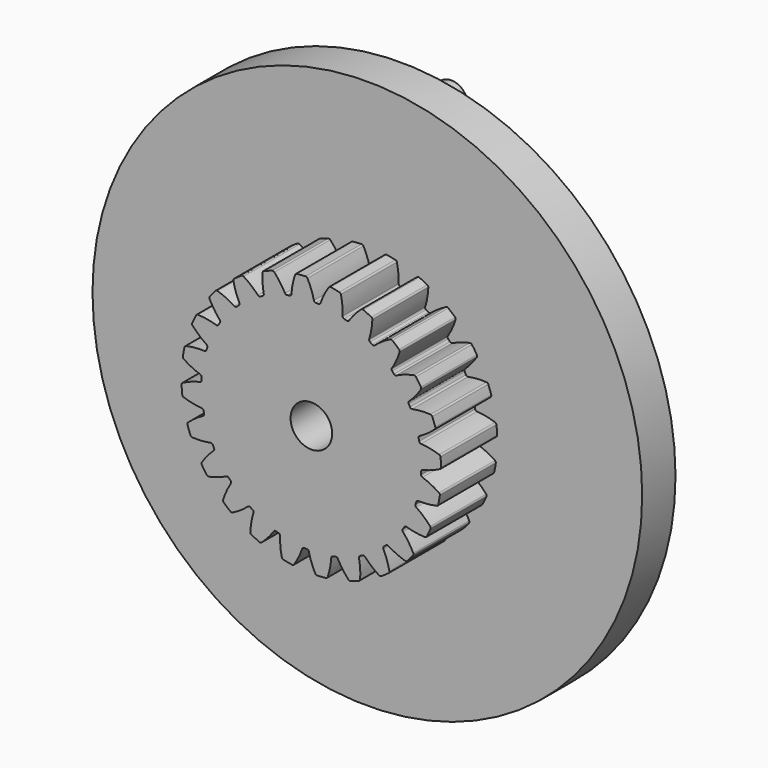
from build123d import *

# Parameters (mm, degrees)
F1_DEPTH = 4.2
F2_R     = 16.5
F3_DEPTH = 2.5
F4_R     = 1.25
F5_DEPTH = 25
F6_R     = 1
F7_DEPTH = 3.8


with BuildPart() as f1:
    # F0 (on Front) → F1 (new body)
    with BuildSketch(Plane.XZ):
        with BuildLine():
            ThreePointArc((0.151287, 6.687828), (-0.007487, 7.220411), (-0.233319, 7.728203))
            ThreePointArc((-0.233319, 7.728203), (-0.279781, 7.776515), (-0.344907, 7.792371))
            ThreePointArc((-0.344907, 7.792371), (-0.611981, 7.775955), (-0.878335, 7.750389))
            ThreePointArc((-0.878335, 7.750389), (-0.940178, 7.72454), (-0.978511, 7.669555))
            ThreePointArc((-0.978511, 7.669555), (-1.122126, 7.132687), (-1.195631, 6.581824))
            ThreePointArc((-1.195631, 6.581824), (-1.225217, 6.510792), (-1.291863, 6.472333))
            ThreePointArc((-1.291863, 6.472333), (-1.372217, 6.455774), (-1.452359, 6.438218))
            ThreePointArc((-1.452359, 6.438218), (-2.203125, 6.221434), (-2.923007, 5.917435))
            ThreePointArc((-2.923007, 5.917435), (-2.996337, 5.880643), (-3.069205, 5.842943))
            ThreePointArc((-3.069205, 5.842943), (-3.738281, 5.439233), (-4.354952, 4.959273))
            ThreePointArc((-4.354952, 4.959273), (-4.416262, 4.904756), (-4.476889, 4.849481))
            ThreePointArc((-4.476889, 4.849481), (-5.018679, 4.286357), (-5.490115, 3.663145))
            ThreePointArc((-5.490115, 3.663145), (-5.535226, 3.594618), (-5.579481, 3.525534))
            ThreePointArc((-5.579481, 3.525534), (-5.957063, 2.841373), (-6.251136, 2.11738))
            ThreePointArc((-6.251136, 2.11738), (-6.276973, 2.039512), (-6.30184, 1.961329))
            ThreePointArc((-6.30184, 1.961329), (-6.489482, 1.202754), (-6.586152, 0.427319))
            ThreePointArc((-6.586152, 0.427319), (-6.590955, 0.345417), (-6.594739, 0.263462))
            ThreePointArc((-6.594739, 0.263462), (-6.579654, -0.51783), (-6.472333, -1.291863))
            ThreePointArc((-6.472333, -1.291863), (-6.455774, -1.372217), (-6.438218, -1.452359))
            ThreePointArc((-6.438218, -1.452359), (-6.221434, -2.203125), (-5.917435, -2.923007))
            ThreePointArc((-5.917435, -2.923007), (-5.880643, -2.996337), (-5.842943, -3.069205))
            ThreePointArc((-5.842943, -3.069205), (-5.439233, -3.738281), (-4.959273, -4.354952))
            ThreePointArc((-4.959273, -4.354952), (-4.904756, -4.416262), (-4.849481, -4.476889))
            ThreePointArc((-4.849481, -4.476889), (-4.286357, -5.018679), (-3.663145, -5.490115))
            ThreePointArc((-3.663145, -5.490115), (-3.594618, -5.535226), (-3.525534, -5.579481))
            ThreePointArc((-3.525534, -5.579481), (-2.841373, -5.957063), (-2.11738, -6.251136))
            ThreePointArc((-2.11738, -6.251136), (-2.039512, -6.276973), (-1.961329, -6.30184))
            ThreePointArc((-1.961329, -6.30184), (-1.202754, -6.489482), (-0.427319, -6.586152))
            ThreePointArc((-0.427319, -6.586152), (-0.345417, -6.590955), (-0.263462, -6.594739))
            ThreePointArc((-0.263462, -6.594739), (0.51783, -6.579654), (1.291863, -6.472333))
            ThreePointArc((1.291863, -6.472333), (1.372217, -6.455774), (1.452359, -6.438218))
            ThreePointArc((1.452359, -6.438218), (2.203125, -6.221434), (2.923007, -5.917435))
            ThreePointArc((2.923007, -5.917435), (2.996337, -5.880643), (3.069205, -5.842943))
            ThreePointArc((3.069205, -5.842943), (3.738281, -5.439233), (4.354952, -4.959273))
            ThreePointArc((4.354952, -4.959273), (4.416262, -4.904756), (4.476889, -4.849481))
            ThreePointArc((4.476889, -4.849481), (5.018679, -4.286357), (5.490115, -3.663145))
            ThreePointArc((5.490115, -3.663145), (5.535226, -3.594618), (5.579481, -3.525534))
            ThreePointArc((5.579481, -3.525534), (5.957063, -2.841373), (6.251136, -2.11738))
            ThreePointArc((6.251136, -2.11738), (6.276973, -2.039512), (6.30184, -1.961329))
            ThreePointArc((6.30184, -1.961329), (6.489482, -1.202754), (6.586152, -0.427319))
            ThreePointArc((6.586152, -0.427319), (6.590955, -0.345417), (6.594739, -0.263462))
            ThreePointArc((6.594739, -0.263462), (6.579654, 0.51783), (6.472333, 1.291863))
            ThreePointArc((6.472333, 1.291863), (6.455774, 1.372217), (6.438218, 1.452359))
            ThreePointArc((6.438218, 1.452359), (6.221434, 2.203125), (5.917435, 2.923007))
            ThreePointArc((5.917435, 2.923007), (5.880643, 2.996337), (5.842943, 3.069205))
            ThreePointArc((5.842943, 3.069205), (5.439233, 3.738281), (4.959273, 4.354952))
            ThreePointArc((4.959273, 4.354952), (4.904756, 4.416262), (4.849481, 4.476889))
            ThreePointArc((4.849481, 4.476889), (4.286357, 5.018679), (3.663145, 5.490115))
            ThreePointArc((3.663145, 5.490115), (3.594618, 5.535226), (3.525534, 5.579481))
            ThreePointArc((3.525534, 5.579481), (2.841373, 5.957063), (2.11738, 6.251136))
            ThreePointArc((2.11738, 6.251136), (2.039512, 6.276973), (1.961329, 6.30184))
            ThreePointArc((1.961329, 6.30184), (1.202754, 6.489482), (0.427319, 6.586152))
            ThreePointArc((0.427319, 6.586152), (0.345417, 6.590955), (0.263462, 6.594739))
            ThreePointArc((0.263462, 6.594739), (0.19162, 6.622299), (0.151287, 6.687828))
        make_face()
        with BuildLine():
            ThreePointArc((0.548611, 6.667005), (0.501649, 6.606051), (0.427319, 6.586152))
            ThreePointArc((0.427319, 6.586152), (1.202754, 6.489482), (1.961329, 6.30184))
            ThreePointArc((1.961329, 6.30184), (1.899068, 6.347055), (1.877069, 6.42079))
            ThreePointArc((1.877069, 6.42079), (1.861548, 6.976319), (1.774837, 7.525258))
            ThreePointArc((1.774837, 7.525258), (1.742462, 7.583949), (1.683659, 7.616121))
            ThreePointArc((1.683659, 7.616121), (1.421437, 7.669388), (1.157542, 7.713631))
            ThreePointArc((1.157542, 7.713631), (1.091116, 7.704669), (1.039858, 7.661478))
            ThreePointArc((1.039858, 7.661478), (0.762184, 7.180074), (0.548611, 6.667005))
        make_face()
        with BuildLine():
            ThreePointArc((2.255465, 6.297842), (2.194327, 6.251119), (2.11738, 6.251136))
            ThreePointArc((2.11738, 6.251136), (2.841373, 5.957063), (3.525534, 5.579481))
            ThreePointArc((3.525534, 5.579481), (3.477097, 5.639269), (3.474932, 5.716186))
            ThreePointArc((3.474932, 5.716186), (3.603721, 6.256802), (3.662041, 6.809479))
            ThreePointArc((3.662041, 6.809479), (3.64596, 6.87455), (3.597487, 6.920844))
            ThreePointArc((3.597487, 6.920844), (3.357987, 7.040165), (3.114534, 7.151201))
            ThreePointArc((3.114534, 7.151201), (3.048052, 7.159737), (2.987362, 7.131285))
            ThreePointArc((2.987362, 7.131285), (2.594553, 6.738151), (2.255465, 6.297842))
        make_face()
        with BuildLine():
            ThreePointArc((-2.923007, 5.917435), (-2.203125, 6.221434), (-1.452359, 6.438218))
            ThreePointArc((-1.452359, 6.438218), (-1.528887, 6.446245), (-1.584806, 6.499102))
            ThreePointArc((-1.584806, 6.499102), (-1.876012, 6.972443), (-2.225575, 7.404483))
            ThreePointArc((-2.225575, 7.404483), (-2.282958, 7.439124), (-2.349969, 7.437583))
            ThreePointArc((-2.349969, 7.437583), (-2.603694, 7.352604), (-2.854354, 7.258971))
            ThreePointArc((-2.854354, 7.258971), (-2.907401, 7.217997), (-2.930196, 7.154964))
            ThreePointArc((-2.930196, 7.154964), (-2.929966, 6.599218), (-2.858392, 6.048101))
            ThreePointArc((-2.858392, 6.048101), (-2.868585, 5.971833), (-2.923007, 5.917435))
        make_face()
        with BuildLine():
            ThreePointArc((3.808613, 5.499491), (3.737466, 5.470184), (3.663145, 5.490115))
            ThreePointArc((3.663145, 5.490115), (4.286357, 5.018679), (4.849481, 4.476889))
            ThreePointArc((4.849481, 4.476889), (4.818168, 4.547177), (4.835985, 4.622033))
            ThreePointArc((4.835985, 4.622033), (5.100307, 5.110895), (5.299683, 5.629646))
            ThreePointArc((5.299683, 5.629646), (5.300991, 5.696662), (5.266152, 5.753924))
            ThreePointArc((5.266152, 5.753924), (5.065695, 5.931167), (4.859276, 6.101429))
            ThreePointArc((4.859276, 6.101429), (4.797268, 6.126881), (4.731283, 6.115106))
            ThreePointArc((4.731283, 6.115106), (4.250108, 5.837034), (3.808613, 5.499491))
        make_face()
        with BuildLine():
            ThreePointArc((-4.354952, 4.959273), (-3.738281, 5.439233), (-3.069205, 5.842943))
            ThreePointArc((-3.069205, 5.842943), (-3.145202, 5.830889), (-3.212896, 5.867473))
            ThreePointArc((-3.212896, 5.867473), (-3.616689, 6.249315), (-4.066161, 6.57616))
            ThreePointArc((-4.066161, 6.57616), (-4.130555, 6.594769), (-4.194884, 6.575937))
            ThreePointArc((-4.194884, 6.575937), (-4.417969, 6.428184), (-4.635854, 6.272866))
            ThreePointArc((-4.635854, 6.272866), (-4.676489, 6.219559), (-4.682193, 6.152774))
            ThreePointArc((-4.682193, 6.152774), (-4.538133, 5.616025), (-4.326359, 5.102211))
            ThreePointArc((-4.326359, 5.102211), (-4.316465, 5.025903), (-4.354952, 4.959273))
        make_face()
        with BuildLine():
            ThreePointArc((5.102211, 4.326359), (5.025903, 4.316465), (4.959273, 4.354952))
            ThreePointArc((4.959273, 4.354952), (5.439233, 3.738281), (5.842943, 3.069205))
            ThreePointArc((5.842943, 3.069205), (5.830889, 3.145202), (5.867473, 3.212896))
            ThreePointArc((5.867473, 3.212896), (6.249315, 3.616689), (6.57616, 4.066161))
            ThreePointArc((6.57616, 4.066161), (6.594769, 4.130555), (6.575937, 4.194884))
            ThreePointArc((6.575937, 4.194884), (6.428184, 4.417969), (6.272866, 4.635854))
            ThreePointArc((6.272866, 4.635854), (6.219559, 4.676489), (6.152774, 4.682193))
            ThreePointArc((6.152774, 4.682193), (5.616025, 4.538133), (5.102211, 4.326359))
        make_face()
        with BuildLine():
            ThreePointArc((-5.490115, 3.663145), (-5.018679, 4.286357), (-4.476889, 4.849481))
            ThreePointArc((-4.476889, 4.849481), (-4.547177, 4.818168), (-4.622033, 4.835985))
            ThreePointArc((-4.622033, 4.835985), (-5.110895, 5.100307), (-5.629646, 5.299683))
            ThreePointArc((-5.629646, 5.299683), (-5.696662, 5.300991), (-5.753924, 5.266152))
            ThreePointArc((-5.753924, 5.266152), (-5.931167, 5.065695), (-6.101429, 4.859276))
            ThreePointArc((-6.101429, 4.859276), (-6.126881, 4.797268), (-6.115106, 4.731283))
            ThreePointArc((-6.115106, 4.731283), (-5.837034, 4.250108), (-5.499491, 3.808613))
            ThreePointArc((-5.499491, 3.808613), (-5.470184, 3.737466), (-5.490115, 3.663145))
        make_face()
        with BuildLine():
            ThreePointArc((6.048101, 2.858392), (5.971833, 2.868585), (5.917435, 2.923007))
            ThreePointArc((5.917435, 2.923007), (6.221434, 2.203125), (6.438218, 1.452359))
            ThreePointArc((6.438218, 1.452359), (6.446245, 1.528887), (6.499102, 1.584806))
            ThreePointArc((6.499102, 1.584806), (6.972443, 1.876012), (7.404483, 2.225575))
            ThreePointArc((7.404483, 2.225575), (7.439124, 2.282958), (7.437583, 2.349969))
            ThreePointArc((7.437583, 2.349969), (7.352604, 2.603694), (7.258971, 2.854354))
            ThreePointArc((7.258971, 2.854354), (7.217997, 2.907401), (7.154964, 2.930196))
            ThreePointArc((7.154964, 2.930196), (6.599218, 2.929966), (6.048101, 2.858392))
        make_face()
        with BuildLine():
            ThreePointArc((-6.251136, 2.11738), (-5.957063, 2.841373), (-5.579481, 3.525534))
            ThreePointArc((-5.579481, 3.525534), (-5.639269, 3.477097), (-5.716186, 3.474932))
            ThreePointArc((-5.716186, 3.474932), (-6.256802, 3.603721), (-6.809479, 3.662041))
            ThreePointArc((-6.809479, 3.662041), (-6.87455, 3.64596), (-6.920844, 3.597487))
            ThreePointArc((-6.920844, 3.597487), (-7.040165, 3.357987), (-7.151201, 3.114534))
            ThreePointArc((-7.151201, 3.114534), (-7.159737, 3.048052), (-7.131285, 2.987362))
            ThreePointArc((-7.131285, 2.987362), (-6.738151, 2.594553), (-6.297842, 2.255465))
            ThreePointArc((-6.297842, 2.255465), (-6.251119, 2.194327), (-6.251136, 2.11738))
        make_face()
        with BuildLine():
            ThreePointArc((6.581824, 1.195631), (6.510792, 1.225217), (6.472333, 1.291863))
            ThreePointArc((6.472333, 1.291863), (6.579654, 0.51783), (6.594739, -0.263462))
            ThreePointArc((6.594739, -0.263462), (6.622299, -0.19162), (6.687828, -0.151287))
            ThreePointArc((6.687828, -0.151287), (7.220411, 0.007487), (7.728203, 0.233319))
            ThreePointArc((7.728203, 0.233319), (7.776515, 0.279781), (7.792371, 0.344907))
            ThreePointArc((7.792371, 0.344907), (7.775955, 0.611981), (7.750389, 0.878335))
            ThreePointArc((7.750389, 0.878335), (7.72454, 0.940178), (7.669555, 0.978511))
            ThreePointArc((7.669555, 0.978511), (7.132687, 1.122126), (6.581824, 1.195631))
        make_face()
        with BuildLine():
            ThreePointArc((-6.586152, 0.427319), (-6.489482, 1.202754), (-6.30184, 1.961329))
            ThreePointArc((-6.30184, 1.961329), (-6.347055, 1.899068), (-6.42079, 1.877069))
            ThreePointArc((-6.42079, 1.877069), (-6.976319, 1.861548), (-7.525258, 1.774837))
            ThreePointArc((-7.525258, 1.774837), (-7.583949, 1.742462), (-7.616121, 1.683659))
            ThreePointArc((-7.616121, 1.683659), (-7.669388, 1.421437), (-7.713631, 1.157542))
            ThreePointArc((-7.713631, 1.157542), (-7.704669, 1.091116), (-7.661478, 1.039858))
            ThreePointArc((-7.661478, 1.039858), (-7.180074, 0.762184), (-6.667005, 0.548611))
            ThreePointArc((-6.667005, 0.548611), (-6.606051, 0.501649), (-6.586152, 0.427319))
        make_face()
        with BuildLine():
            ThreePointArc((6.667005, -0.548611), (6.606051, -0.501649), (6.586152, -0.427319))
            ThreePointArc((6.586152, -0.427319), (6.489482, -1.202754), (6.30184, -1.961329))
            ThreePointArc((6.30184, -1.961329), (6.347055, -1.899068), (6.42079, -1.877069))
            ThreePointArc((6.42079, -1.877069), (6.976319, -1.861548), (7.525258, -1.774837))
            ThreePointArc((7.525258, -1.774837), (7.583949, -1.742462), (7.616121, -1.683659))
            ThreePointArc((7.616121, -1.683659), (7.669388, -1.421437), (7.713631, -1.157542))
            ThreePointArc((7.713631, -1.157542), (7.704669, -1.091116), (7.661478, -1.039858))
            ThreePointArc((7.661478, -1.039858), (7.180074, -0.762184), (6.667005, -0.548611))
        make_face()
        with BuildLine():
            ThreePointArc((-6.472333, -1.291863), (-6.579654, -0.51783), (-6.594739, 0.263462))
            ThreePointArc((-6.594739, 0.263462), (-6.622299, 0.19162), (-6.687828, 0.151287))
            ThreePointArc((-6.687828, 0.151287), (-7.220411, -0.007487), (-7.728203, -0.233319))
            ThreePointArc((-7.728203, -0.233319), (-7.776515, -0.279781), (-7.792371, -0.344907))
            ThreePointArc((-7.792371, -0.344907), (-7.775955, -0.611981), (-7.750389, -0.878335))
            ThreePointArc((-7.750389, -0.878335), (-7.72454, -0.940178), (-7.669555, -0.978511))
            ThreePointArc((-7.669555, -0.978511), (-7.132687, -1.122126), (-6.581824, -1.195631))
            ThreePointArc((-6.581824, -1.195631), (-6.510792, -1.225217), (-6.472333, -1.291863))
        make_face()
        with BuildLine():
            ThreePointArc((6.297842, -2.255465), (6.251119, -2.194327), (6.251136, -2.11738))
            ThreePointArc((6.251136, -2.11738), (5.957063, -2.841373), (5.579481, -3.525534))
            ThreePointArc((5.579481, -3.525534), (5.639269, -3.477097), (5.716186, -3.474932))
            ThreePointArc((5.716186, -3.474932), (6.256802, -3.603721), (6.809479, -3.662041))
            ThreePointArc((6.809479, -3.662041), (6.87455, -3.64596), (6.920844, -3.597487))
            ThreePointArc((6.920844, -3.597487), (7.040165, -3.357987), (7.151201, -3.114534))
            ThreePointArc((7.151201, -3.114534), (7.159737, -3.048052), (7.131285, -2.987362))
            ThreePointArc((7.131285, -2.987362), (6.738151, -2.594553), (6.297842, -2.255465))
        make_face()
        with BuildLine():
            ThreePointArc((-5.917435, -2.923007), (-6.221434, -2.203125), (-6.438218, -1.452359))
            ThreePointArc((-6.438218, -1.452359), (-6.446245, -1.528887), (-6.499102, -1.584806))
            ThreePointArc((-6.499102, -1.584806), (-6.972443, -1.876012), (-7.404483, -2.225575))
            ThreePointArc((-7.404483, -2.225575), (-7.439124, -2.282958), (-7.437583, -2.349969))
            ThreePointArc((-7.437583, -2.349969), (-7.352604, -2.603694), (-7.258971, -2.854354))
            ThreePointArc((-7.258971, -2.854354), (-7.217997, -2.907401), (-7.154964, -2.930196))
            ThreePointArc((-7.154964, -2.930196), (-6.599218, -2.929966), (-6.048101, -2.858392))
            ThreePointArc((-6.048101, -2.858392), (-5.971833, -2.868585), (-5.917435, -2.923007))
        make_face()
        with BuildLine():
            ThreePointArc((5.499491, -3.808613), (5.470184, -3.737466), (5.490115, -3.663145))
            ThreePointArc((5.490115, -3.663145), (5.018679, -4.286357), (4.476889, -4.849481))
            ThreePointArc((4.476889, -4.849481), (4.547177, -4.818168), (4.622033, -4.835985))
            ThreePointArc((4.622033, -4.835985), (5.110895, -5.100307), (5.629646, -5.299683))
            ThreePointArc((5.629646, -5.299683), (5.696662, -5.300991), (5.753924, -5.266152))
            ThreePointArc((5.753924, -5.266152), (5.931167, -5.065695), (6.101429, -4.859276))
            ThreePointArc((6.101429, -4.859276), (6.126881, -4.797268), (6.115106, -4.731283))
            ThreePointArc((6.115106, -4.731283), (5.837034, -4.250108), (5.499491, -3.808613))
        make_face()
        with BuildLine():
            ThreePointArc((-4.959273, -4.354952), (-5.439233, -3.738281), (-5.842943, -3.069205))
            ThreePointArc((-5.842943, -3.069205), (-5.830889, -3.145202), (-5.867473, -3.212896))
            ThreePointArc((-5.867473, -3.212896), (-6.249315, -3.616689), (-6.57616, -4.066161))
            ThreePointArc((-6.57616, -4.066161), (-6.594769, -4.130555), (-6.575937, -4.194884))
            ThreePointArc((-6.575937, -4.194884), (-6.428184, -4.417969), (-6.272866, -4.635854))
            ThreePointArc((-6.272866, -4.635854), (-6.219559, -4.676489), (-6.152774, -4.682193))
            ThreePointArc((-6.152774, -4.682193), (-5.616025, -4.538133), (-5.102211, -4.326359))
            ThreePointArc((-5.102211, -4.326359), (-5.025903, -4.316465), (-4.959273, -4.354952))
        make_face()
        with BuildLine():
            ThreePointArc((4.326359, -5.102211), (4.316465, -5.025903), (4.354952, -4.959273))
            ThreePointArc((4.354952, -4.959273), (3.738281, -5.439233), (3.069205, -5.842943))
            ThreePointArc((3.069205, -5.842943), (3.145202, -5.830889), (3.212896, -5.867473))
            ThreePointArc((3.212896, -5.867473), (3.616689, -6.249315), (4.066161, -6.57616))
            ThreePointArc((4.066161, -6.57616), (4.130555, -6.594769), (4.194884, -6.575937))
            ThreePointArc((4.194884, -6.575937), (4.417969, -6.428184), (4.635854, -6.272866))
            ThreePointArc((4.635854, -6.272866), (4.676489, -6.219559), (4.682193, -6.152774))
            ThreePointArc((4.682193, -6.152774), (4.538133, -5.616025), (4.326359, -5.102211))
        make_face()
        with BuildLine():
            ThreePointArc((-3.663145, -5.490115), (-4.286357, -5.018679), (-4.849481, -4.476889))
            ThreePointArc((-4.849481, -4.476889), (-4.818168, -4.547177), (-4.835985, -4.622033))
            ThreePointArc((-4.835985, -4.622033), (-5.100307, -5.110895), (-5.299683, -5.629646))
            ThreePointArc((-5.299683, -5.629646), (-5.300991, -5.696662), (-5.266152, -5.753924))
            ThreePointArc((-5.266152, -5.753924), (-5.065695, -5.931167), (-4.859276, -6.101429))
            ThreePointArc((-4.859276, -6.101429), (-4.797268, -6.126881), (-4.731283, -6.115106))
            ThreePointArc((-4.731283, -6.115106), (-4.250108, -5.837034), (-3.808613, -5.499491))
            ThreePointArc((-3.808613, -5.499491), (-3.737466, -5.470184), (-3.663145, -5.490115))
        make_face()
        with BuildLine():
            ThreePointArc((2.858392, -6.048101), (2.868585, -5.971833), (2.923007, -5.917435))
            ThreePointArc((2.923007, -5.917435), (2.203125, -6.221434), (1.452359, -6.438218))
            ThreePointArc((1.452359, -6.438218), (1.528887, -6.446245), (1.584806, -6.499102))
            ThreePointArc((1.584806, -6.499102), (1.876012, -6.972443), (2.225575, -7.404483))
            ThreePointArc((2.225575, -7.404483), (2.282958, -7.439124), (2.349969, -7.437583))
            ThreePointArc((2.349969, -7.437583), (2.603694, -7.352604), (2.854354, -7.258971))
            ThreePointArc((2.854354, -7.258971), (2.907401, -7.217997), (2.930196, -7.154964))
            ThreePointArc((2.930196, -7.154964), (2.929966, -6.599218), (2.858392, -6.048101))
        make_face()
        with BuildLine():
            ThreePointArc((-2.11738, -6.251136), (-2.841373, -5.957063), (-3.525534, -5.579481))
            ThreePointArc((-3.525534, -5.579481), (-3.477097, -5.639269), (-3.474932, -5.716186))
            ThreePointArc((-3.474932, -5.716186), (-3.603721, -6.256802), (-3.662041, -6.809479))
            ThreePointArc((-3.662041, -6.809479), (-3.64596, -6.87455), (-3.597487, -6.920844))
            ThreePointArc((-3.597487, -6.920844), (-3.357987, -7.040165), (-3.114534, -7.151201))
            ThreePointArc((-3.114534, -7.151201), (-3.048052, -7.159737), (-2.987362, -7.131285))
            ThreePointArc((-2.987362, -7.131285), (-2.594553, -6.738151), (-2.255465, -6.297842))
            ThreePointArc((-2.255465, -6.297842), (-2.194327, -6.251119), (-2.11738, -6.251136))
        make_face()
        with BuildLine():
            ThreePointArc((1.195631, -6.581824), (1.225217, -6.510792), (1.291863, -6.472333))
            ThreePointArc((1.291863, -6.472333), (0.51783, -6.579654), (-0.263462, -6.594739))
            ThreePointArc((-0.263462, -6.594739), (-0.19162, -6.622299), (-0.151287, -6.687828))
            ThreePointArc((-0.151287, -6.687828), (0.007487, -7.220411), (0.233319, -7.728203))
            ThreePointArc((0.233319, -7.728203), (0.279781, -7.776515), (0.344907, -7.792371))
            ThreePointArc((0.344907, -7.792371), (0.611981, -7.775955), (0.878335, -7.750389))
            ThreePointArc((0.878335, -7.750389), (0.940178, -7.72454), (0.978511, -7.669555))
            ThreePointArc((0.978511, -7.669555), (1.122126, -7.132687), (1.195631, -6.581824))
        make_face()
        with BuildLine():
            ThreePointArc((-0.427319, -6.586152), (-1.202754, -6.489482), (-1.961329, -6.30184))
            ThreePointArc((-1.961329, -6.30184), (-1.899068, -6.347055), (-1.877069, -6.42079))
            ThreePointArc((-1.877069, -6.42079), (-1.861548, -6.976319), (-1.774837, -7.525258))
            ThreePointArc((-1.774837, -7.525258), (-1.742462, -7.583949), (-1.683659, -7.616121))
            ThreePointArc((-1.683659, -7.616121), (-1.421437, -7.669388), (-1.157542, -7.713631))
            ThreePointArc((-1.157542, -7.713631), (-1.091116, -7.704669), (-1.039858, -7.661478))
            ThreePointArc((-1.039858, -7.661478), (-0.762184, -7.180074), (-0.548611, -6.667005))
            ThreePointArc((-0.548611, -6.667005), (-0.501649, -6.606051), (-0.427319, -6.586152))
        make_face()
    extrude(amount=F1_DEPTH)

    # F2 (on Front) → F3 (join)
    with BuildSketch(Plane.XZ):
        Circle(F2_R)
    extrude(amount=-F3_DEPTH)

    # F4 (on face) → F5 (cut)
    with BuildSketch(Plane.XZ.offset(4.2)):
        Circle(F4_R)
    extrude(amount=-F5_DEPTH, mode=Mode.SUBTRACT)

    # F6 (on face) → F7 (join)
    with BuildSketch(Plane(origin=(0, 2.5, 0), x_dir=(-1, 0, 0), z_dir=(0, 1, 0))):
        with Locations((0, 13)):
            Circle(F6_R)
        with Locations((-11.25833, -6.5)):
            Circle(F6_R)
        with Locations((11.25833, -6.5)):
            Circle(F6_R)
    extrude(amount=F7_DEPTH)


solid = f1.part
